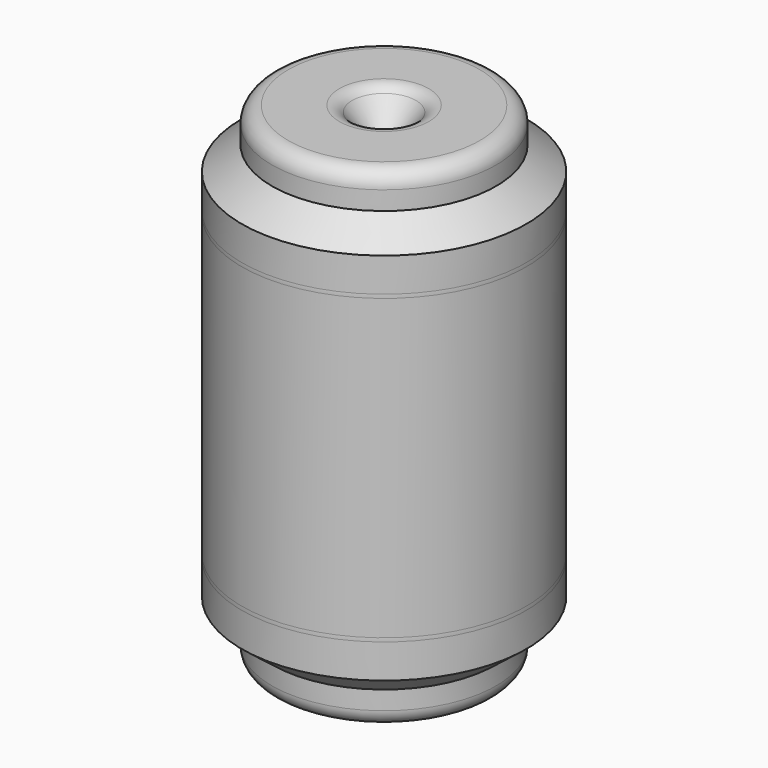
from build123d import *

# Parameters (mm, degrees)
F2_R = 5.08


with BuildPart() as f1:
    # F0 (on Front) → F1 (revolve)
    with BuildSketch(Plane.XZ):
        with BuildLine():
            Line((0, -61.158732), (0, 62.042959))
            Line((0, 62.042959), (-11.49489, 76.779999))
            Line((-11.49489, 76.779999), (-35.07416, 76.779999))
            Line((-35.07416, 76.779999), (-35.07416, 65.874591))
            Line((-35.07416, 65.874591), (-44.505868, 58.506068))
            Line((-44.505868, 58.506068), (-44.505868, -46.716429))
            ThreePointArc((-44.505868, -46.716429), (-40.659053, -56.89148), (-30.653045, -61.158732))
            Line((-30.653045, -61.158732), (0, -61.158732))
        make_face()
    revolve(axis=Axis((0, 0, 0.442114), (0, 0, -1)))

    # F2
    f2_edges = [f1.edges().sort_by_distance(p)[0] for p in [
        (11.49489, 0, 76.779999),
        (35.07416, 0, 76.779999),
    ]]
    fillet(f2_edges, radius=F2_R)

    # F3: F1 across plane


with BuildPart() as f1_1:
    add(f1.part)
    add(f1.part.mirror(Plane.XY))


solid = f1_1.part
